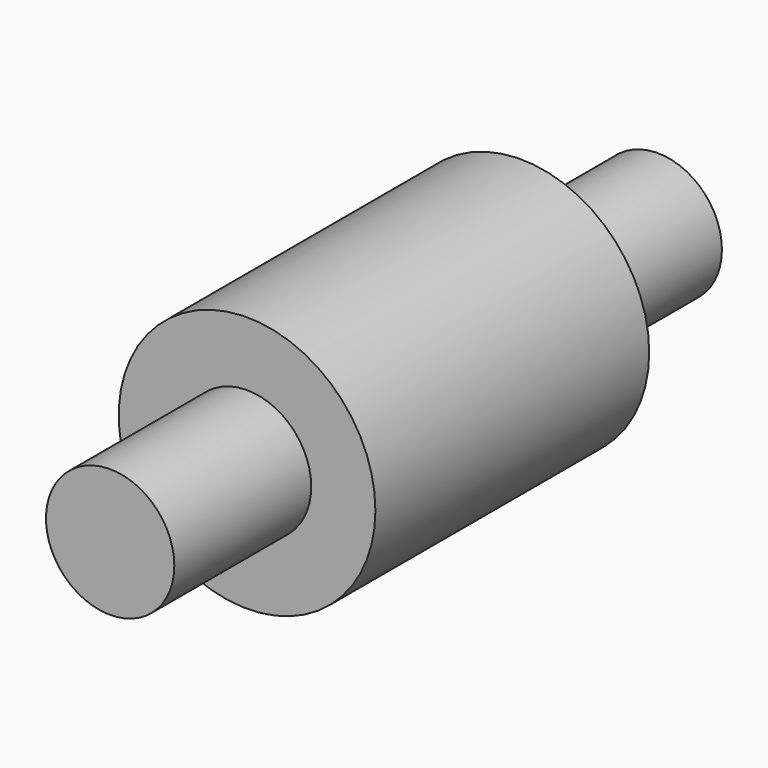
from build123d import *

# Parameters (mm, degrees)
F0_R     = 38.1
F1_DEPTH = 50.8
F2_R     = 19.05
F3_DEPTH = 101.6


with BuildPart() as f1:
    # F0 (on Front) → F1 (new body, symmetric)
    with BuildSketch(Plane.XZ):
        Circle(F0_R)
    extrude(amount=F1_DEPTH, both=True)

    # F2 (on Front) → F3 (join, symmetric)
    with BuildSketch(Plane.XZ):
        Circle(F2_R)
    extrude(amount=F3_DEPTH, both=True)


solid = f1.part
